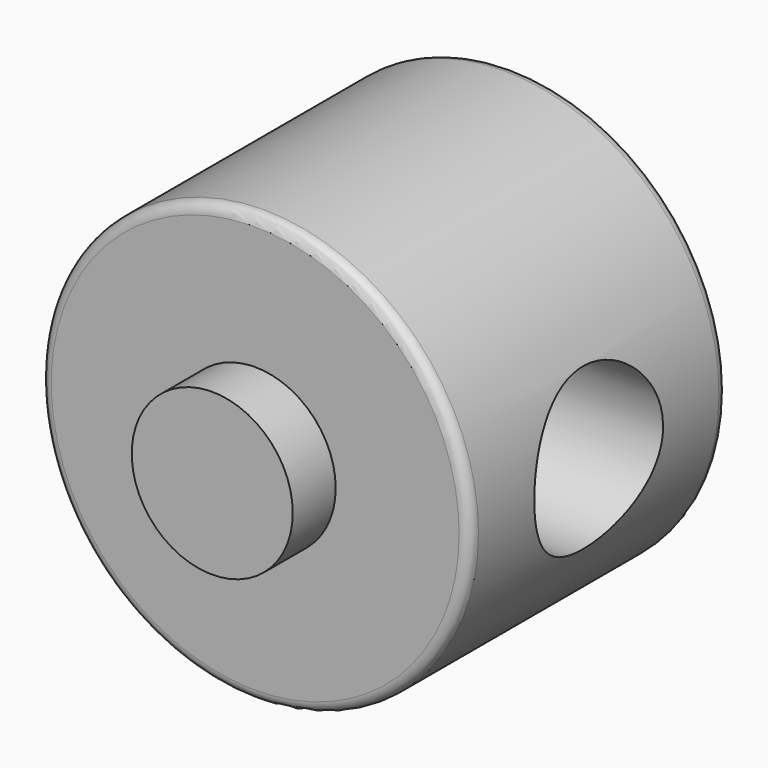
from build123d import *

# Parameters (mm, degrees)
F0_R          = 20
F0_R_2        = 7.5
F1_DEPTH      = 30
F2_DEPTH      = 35
F2_DEPTH_BACK = 5
F4_R          = 7.5
F5_DEPTH      = 40.001
F6_R          = 1


with BuildPart() as f1:
    # F0 (on Front) → F1 (new body)
    with BuildSketch(Plane.XZ):
        Circle(F0_R)
        Circle(F0_R_2, mode=Mode.SUBTRACT)
    extrude(amount=F1_DEPTH)

    # F0 (on Front) → F2 (join, two sides)
    with BuildSketch(Plane.XZ) as f2_sk:
        Circle(F0_R_2)
    extrude(amount=F2_DEPTH)
    extrude(f2_sk.sketch, amount=-F2_DEPTH_BACK)

    # F4 (on offset) → F5 (cut, through all)
    with BuildSketch(Plane.YZ.offset(20)):
        with Locations((-15, 0)):
            Circle(F4_R)
    extrude(amount=-F5_DEPTH, mode=Mode.SUBTRACT)

    # F6
    f6_edges = [f1.edges().sort_by_distance(p)[0] for p in [
        (-20, -30, 0),
        (-20, 0, 0),
    ]]
    fillet(f6_edges, radius=F6_R)


solid = f1.part
